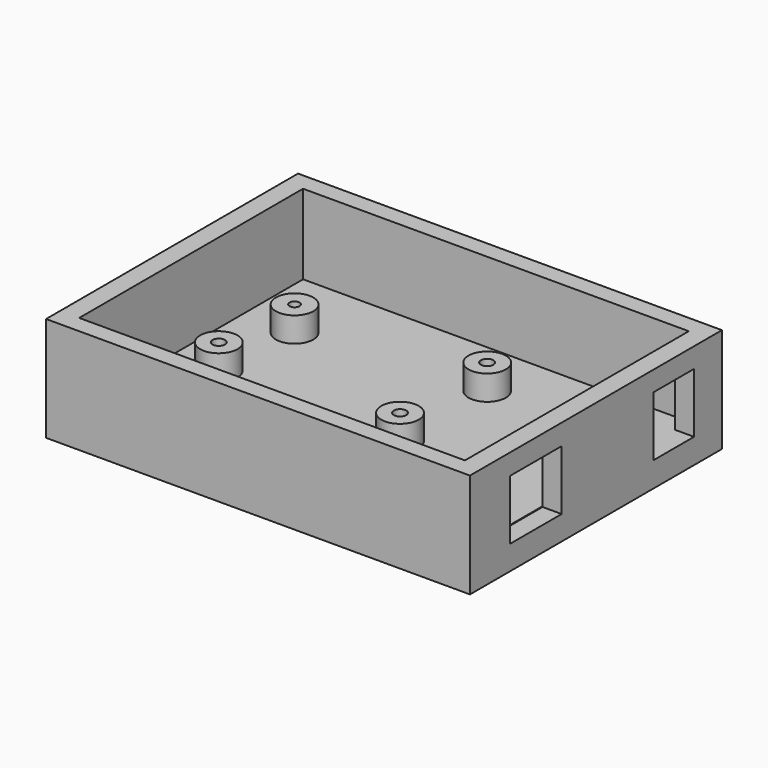
from build123d import *

# Parameters (mm, degrees)
F0_W     = 85.06
F0_H     = 63.2
F1_DEPTH = 5
F2_W     = 85.06
F2_H     = 63.2
F2_W_2   = 77.40441
F2_H_2   = 56.148566
F3_DEPTH = 16
F4_W     = 10.2
F4_H     = 12
F5_DEPTH = 25
F6_W     = 13
F6_H     = 12
F7_DEPTH = 3.827795
F8_R     = 3.75
F8_R_2   = 1
F8_R_3   = 1.25
F9_DEPTH = 5


with BuildPart() as f1:
    # F0 (on Top) → F1 (new body)
    with BuildSketch(Plane.XY):
        Rectangle(F0_W, F0_H)
    extrude(amount=F1_DEPTH)

    # F2 (on face) → F3 (join)
    with BuildSketch(Plane.XY.offset(5)):
        Rectangle(F2_W, F2_H)
        Rectangle(F2_W_2, F2_H_2, mode=Mode.SUBTRACT)
    extrude(amount=F3_DEPTH)

    # F4 (on face) → F5 (cut)
    with BuildSketch(Plane.YZ.offset(42.53)):
        with Locations((19.5, 11)):
            Rectangle(F4_W, F4_H)
    extrude(amount=-F5_DEPTH, mode=Mode.SUBTRACT)

    # F6 (on face) → F7 (cut, through all)
    with BuildSketch(Plane.YZ.offset(42.53)):
        with Locations((-15.1, 10.857148)):
            Rectangle(F6_W, F6_H)
    extrude(amount=-F7_DEPTH, mode=Mode.SUBTRACT)

    # F8 (on face) → F9 (join)
    with BuildSketch(Plane.XY.offset(5)):
        with Locations((-28.422205, 13.094283)):
            Circle(F8_R)
        with Locations((-28.422205, 13.094283)):
            Circle(F8_R_2, mode=Mode.SUBTRACT)
        with Locations((-29.664541, -4.354283)):
            Circle(F8_R)
        with Locations((-29.664541, -4.354283)):
            Circle(F8_R_3, mode=Mode.SUBTRACT)
        with Locations((7.469576, 16.546624)):
            Circle(F8_R)
        with Locations((7.469576, 16.546624)):
            Circle(F8_R_3, mode=Mode.SUBTRACT)
        with Locations((7.469576, -5.314252)):
            Circle(F8_R)
        with Locations((7.469576, -5.314252)):
            Circle(F8_R_3, mode=Mode.SUBTRACT)
    extrude(amount=F9_DEPTH)


solid = f1.part
